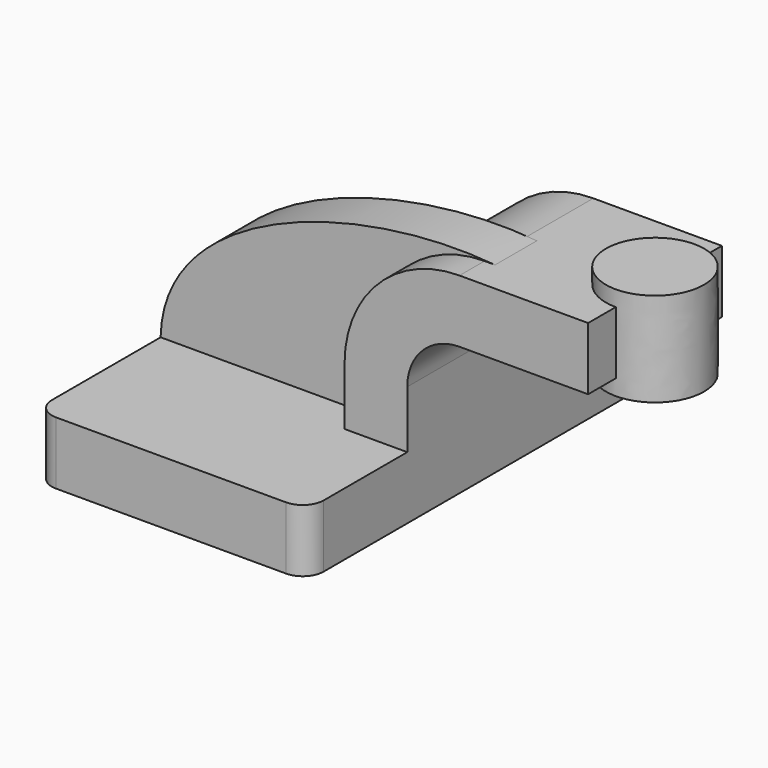
from build123d import *

# Parameters (mm, degrees)
F1_DEPTH = 63.5
F2_DEPTH = 25.4
F3_DEPTH = 15.875
F5_R     = 6.35


with BuildPart() as f1:
    # F0 (on Front) → F1 (new body, symmetric)
    with BuildSketch(Plane.XZ):
        Polygon((41.275, -9.525), (41.275, 9.525), (22.225, 9.525), (-41.275, 9.525), (-41.275, -9.525), align=None)
    extrude(amount=F1_DEPTH, both=True)

    # F0 (on Front) → F2 (join, symmetric)
    with BuildSketch(Plane.XZ):
        with BuildLine():
            Line((22.225, 9.525), (41.275, 9.525))
            Line((41.275, 9.525), (41.275, 27.0002))
            ThreePointArc((41.275, 27.0002), (45.9246798487, 38.2255201513), (57.15, 42.8752))
            Line((57.15, 42.8752), (60.325, 42.8752))
            Line((60.325, 42.8752), (60.325, 61.9252))
            Line((60.325, 61.9252), (57.15, 61.9252))
            ThreePointArc((57.15, 61.9252), (32.4542956671, 51.6959043329), (22.225, 27.0002))
            Line((22.225, 27.0002), (22.225, 9.525))
        make_face()
        Polygon((96.2208863549, 61.9252), (60.325, 61.9252), (60.325, 42.8752), (96.2274231248, 42.8752), align=None)
    extrude(amount=F2_DEPTH, both=True)

    # F0 (on Front) → F3 (join)
    with BuildSketch(Plane.XZ):
        with BuildLine():
            Line((-41.275, 9.525), (22.225, 9.525))
            Line((22.225, 9.525), (22.225, 27.0002))
            ThreePointArc((22.225, 27.0002), (32.4542956671, 51.6959043329), (57.15, 61.9252))
            Line((57.15, 61.9252), (60.325, 61.9252))
            add(Edge.make_bspline(
                [(-41.275, 9.525), (-40.5514836311, 47.1779592335), (18.5578372329, 65.8548623323), (60.325, 61.9252)],
                knots=[0, 0, 0, 0, 114.3168446032, 114.3168446032, 114.3168446032, 114.3168446032], degree=3))
        make_face()
    extrude(amount=F3_DEPTH)

    # F0 (on Front) → F4 (revolve)
    with BuildSketch(Plane.XZ):
        Polygon((96.2192565203, 66.675), (96.2208863549, 61.9252), (96.2274231248, 42.8752), (96.2290616752, 38.1), (111.125, 38.1), (111.125, 66.675), align=None)
    revolve(axis=Axis((96.2241590977, 0, 52.3875), (0.0003431375, 0, -0.9999999411)))

    # F5
    f5_edges = [f1.edges().sort_by_distance(p)[0] for p in [
        (41.275, -63.5, 0),
        (-41.275, -63.5, 0),
        (-41.275, 63.5, 0),
        (41.275, 63.5, 0),
    ]]
    fillet(f5_edges, radius=F5_R)


solid = f1.part
